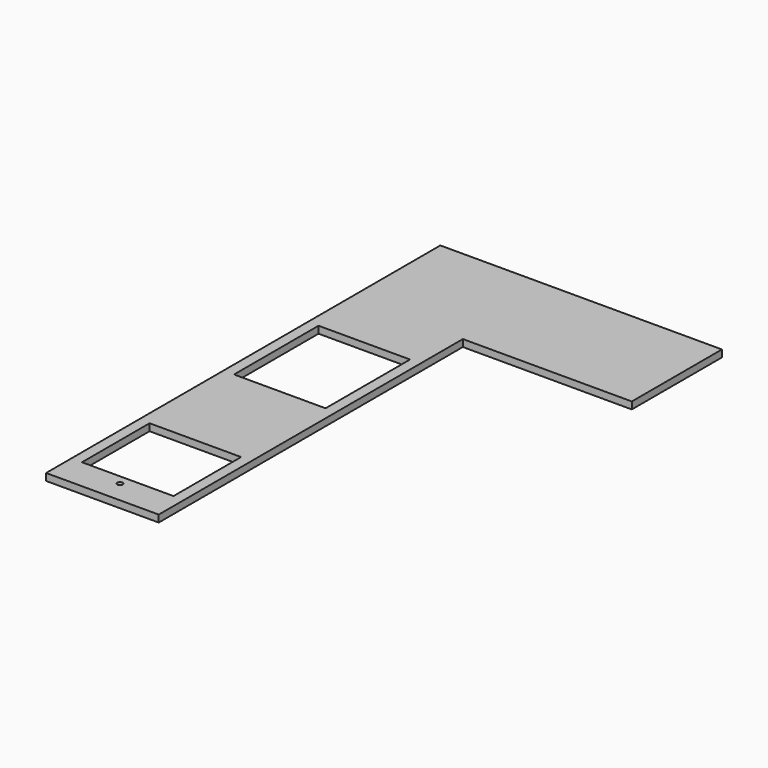
from build123d import *

# Parameters (mm, degrees)
F0_W     = 812.8
F0_H     = 2743.2
F0_R     = 19.05
F0_W_2   = 660.4
F0_H_2   = 609.6
F0_H_3   = 762
F1_DEPTH = 50.8


with BuildPart() as f1:
    # F0 (on Top) → F1 (new body)
    with BuildSketch(Plane.XY):
        with Locations((-1515.432698, 533.4)):
            Rectangle(F0_W, F0_H)
        with Locations((-1515.432698, -679.45)):
            Circle(F0_R, mode=Mode.SUBTRACT)
        with Locations((-1515.432698, -304.8)):
            Rectangle(F0_W_2, F0_H_2, mode=Mode.SUBTRACT)
        with Locations((-1515.432698, 1143)):
            Rectangle(F0_W_2, F0_H_3, mode=Mode.SUBTRACT)
        Polygon((110.167302, 2717.8), (-1921.832698, 2717.8), (-1921.832698, 1905), (-1109.032698, 1905), (110.167302, 1905), align=None)
    extrude(amount=F1_DEPTH)


solid = f1.part
